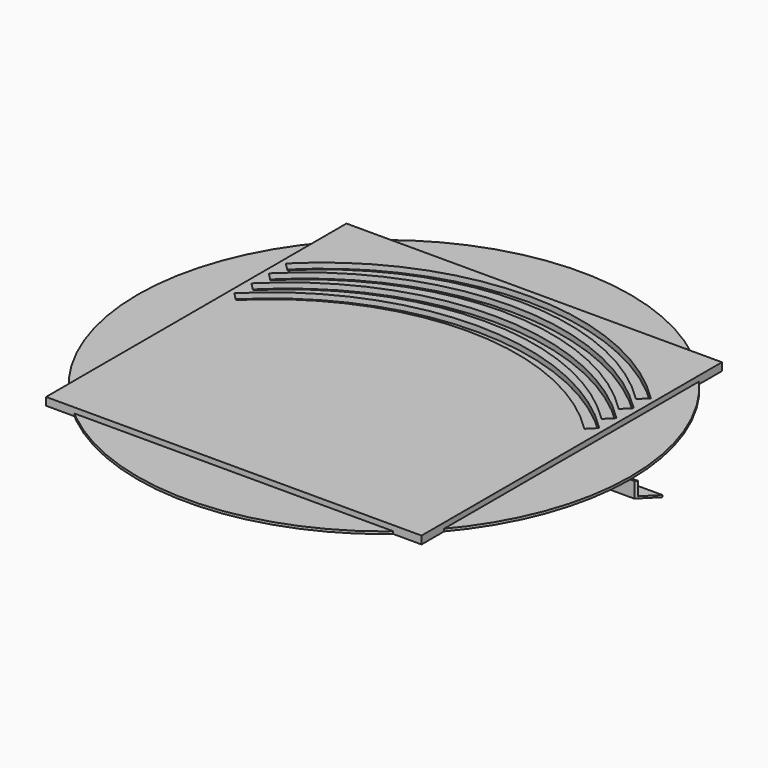
from build123d import *

# Parameters (mm, degrees)
F0_R      = 800.1
F1_DEPTH  = 7.9375
F2_R      = 4.7625
F3_DEPTH  = 6.35
F4_W      = 812.8
F4_H      = 450.85
F5_DEPTH  = 7.9375
F7_DEPTH  = 863.6
F9_DEPTH  = 50.8
F11_DEPTH = 501.65
F13_DEPTH = 50.8
F14_W     = 1219.2
F14_H     = 1219.2
F15_DEPTH = 25.4


with BuildPart() as f1:
    # F0 (on Top) → F1 (new body)
    with BuildSketch(Plane.XY):
        Circle(F0_R)
        Polygon((-406.4, 152.4), (0, 152.4), (406.4, 152.4), (406.4, -298.45), (-406.4, -298.45), align=None, mode=Mode.SUBTRACT)
    extrude(amount=F1_DEPTH)


with BuildPart() as f3:
    # F2 (on Right) → F3 (new body)
    with BuildSketch(Plane.YZ):
        with BuildLine():
            Line((58.615385, 24.423077), (0, 0))
            Line((0, 0), (76.2, 0))
            Line((76.2, 0), (76.2, 12.7))
            ThreePointArc((76.2, 12.7), (70.544692, 23.267039), (58.615385, 24.423077))
        make_face()
        with Locations((63.5, 12.7)):
            Circle(F2_R, mode=Mode.SUBTRACT)
    extrude(amount=F3_DEPTH)


with BuildPart() as f5:
    # F4 (on Top) → F5 (new body)
    with BuildSketch(Plane.XY):
        with Locations((0, -73.025)):
            Rectangle(F4_W, F4_H)
    extrude(amount=F5_DEPTH)


with BuildPart() as f7:
    # F6 (on Right) → F7 (new body)
    with BuildSketch(Plane.YZ):
        Polygon((6.35, 0), (0, 0), (0, -50.8), (50.8, -50.8), (50.8, -44.45), (6.35, -44.45), align=None)
    extrude(amount=F7_DEPTH)

    # F8 (on Top) → F9 (cut)
    with BuildSketch(Plane.XY):
        Polygon((0, 50.8), (0, 0), (50.8, 0), align=None)
        Polygon((863.6, 0), (863.6, 50.8), (812.8, 0), align=None)
    extrude(amount=-F9_DEPTH, mode=Mode.SUBTRACT)


with BuildPart() as f11:
    # F10 (on Right) → F11 (new body)
    with BuildSketch(Plane.YZ):
        Polygon((0, -50.8), (0, 0), (-50.8, 0), (-50.8, -6.35), (-6.35, -6.35), (-6.35, -50.8), align=None)
    extrude(amount=F11_DEPTH)

    # F12 (on Top) → F13 (cut)
    with BuildSketch(Plane.XY):
        Polygon((501.65, -50.8), (501.65, 0), (450.85, 0), align=None)
        Polygon((0, 0), (0, -50.8), (50.8, 0), align=None)
    extrude(amount=-F13_DEPTH, mode=Mode.SUBTRACT)


with BuildPart() as f15:
    # F14 (on Top) → F15 (new body)
    with BuildSketch(Plane.XY):
        Rectangle(F14_W, F14_H)
        with BuildLine():
            ThreePointArc((-592.696911, 133.105716), (-7e-06, 378.608812), (592.696897, 133.105716))
            Line((592.696897, 133.105716), (565.756129, 106.164947))
            ThreePointArc((565.756129, 106.164947), (-7e-06, 340.508812), (-565.756142, 106.164947))
            Line((-565.756142, 106.164947), (-592.696911, 133.105716))
        make_face(mode=Mode.SUBTRACT)
        with BuildLine():
            ThreePointArc((-592.696904, 202.611684), (0, 448.11478), (592.696904, 202.611684))
            Line((592.696904, 202.611684), (565.756136, 175.670915))
            ThreePointArc((565.756136, 175.670915), (0, 410.01478), (-565.756136, 175.670915))
            Line((-565.756136, 175.670915), (-592.696904, 202.611684))
        make_face(mode=Mode.SUBTRACT)
        with BuildLine():
            ThreePointArc((-592.696911, 272.832891), (-7e-06, 518.335987), (592.696897, 272.832891))
            Line((592.696897, 272.832891), (565.756129, 245.892122))
            ThreePointArc((565.756129, 245.892122), (-7e-06, 480.235987), (-565.756142, 245.892122))
            Line((-565.756142, 245.892122), (-592.696911, 272.832891))
        make_face(mode=Mode.SUBTRACT)
        with BuildLine():
            ThreePointArc((-592.696904, 342.338859), (0, 587.841955), (592.696904, 342.338859))
            Line((592.696904, 342.338859), (565.756136, 315.398091))
            ThreePointArc((565.756136, 315.398091), (0, 549.741955), (-565.756136, 315.398091))
            Line((-565.756136, 315.398091), (-592.696904, 342.338859))
        make_face(mode=Mode.SUBTRACT)
    extrude(amount=F15_DEPTH)


solid = Compound([f1.part, f3.part, f5.part, f7.part, f11.part, f15.part])
